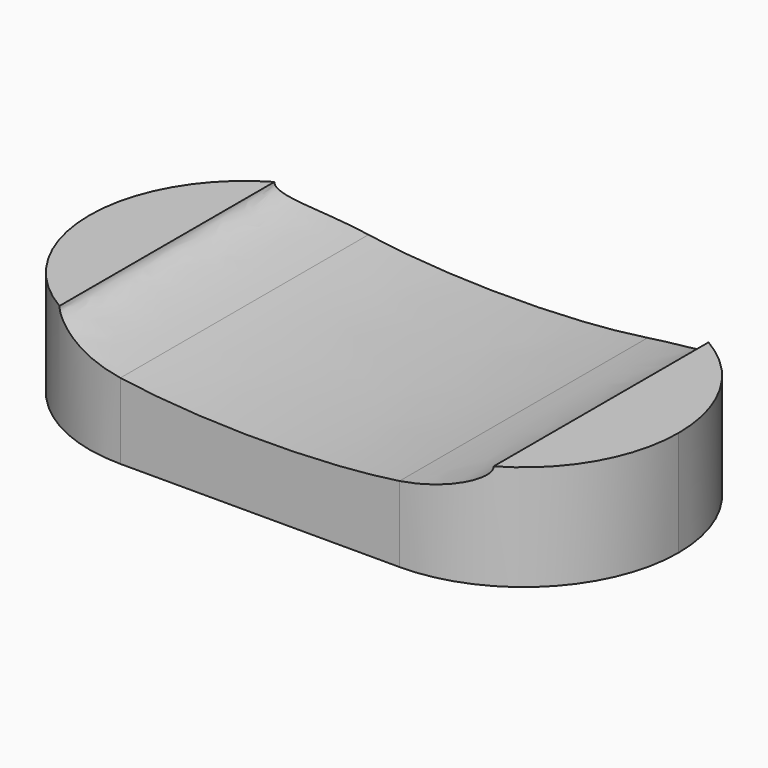
from build123d import *

# Parameters (mm, degrees)
F1_DEPTH = 6.8
F3_DEPTH = 25
F5_DEPTH = 2
F7_DEPTH = 2


with BuildPart() as f1:
    # F0 (on Top) → F1 (new body)
    with BuildSketch(Plane.XY):
        with BuildLine():
            ThreePointArc((-46.538709, 10.046789), (-53.609776, 7.117857), (-56.538709, 0.046789))
            Line((-56.538709, 0.046789), (-37.538709, 0.046789))
            Line((-37.538709, 0.046789), (-37.538709, 10.046789))
            Line((-37.538709, 10.046789), (-46.538709, 10.046789))
        make_face()
        with BuildLine():
            Line((-37.538709, 0.046789), (-56.538709, 0.046789))
            ThreePointArc((-56.538709, 0.046789), (-53.609776, -7.024279), (-46.538709, -9.953211))
            Line((-46.538709, -9.953211), (-37.538709, -9.953211))
            Line((-37.538709, -9.953211), (-37.538709, 0.046789))
        make_face()
        with BuildLine():
            Line((-37.538709, 10.046789), (-37.538709, 0.046789))
            Line((-37.538709, 0.046789), (-18.538709, 0.046789))
            ThreePointArc((-18.538709, 0.046789), (-21.467641, 7.117857), (-28.538709, 10.046789))
            Line((-28.538709, 10.046789), (-37.538709, 10.046789))
        make_face()
        with BuildLine():
            Line((-18.538709, 0.046789), (-37.538709, 0.046789))
            Line((-37.538709, 0.046789), (-37.538709, -9.953211))
            Line((-37.538709, -9.953211), (-28.538709, -9.953211))
            ThreePointArc((-28.538709, -9.953211), (-21.467641, -7.024279), (-18.538709, 0.046789))
        make_face()
    extrude(amount=F1_DEPTH)

    # F2 (on face) → F3 (cut)
    with BuildSketch(Plane.XZ.offset(9.953211)):
        with BuildLine():
            Line((-46.538709, 6.8), (-46.538709, 4.885035))
            add(Edge.make_bspline(
                [(-46.538709, 4.885035), (-37.538709, 3.536233), (-28.538709, 4.885035)],
                knots=[4.014167, 4.014167, 4.014167, 5.410611, 5.410611, 5.410611], degree=2, weights=[1, 0.765986, 1]))
            Line((-28.538709, 4.885035), (-28.538709, 6.8))
            Line((-28.538709, 6.8), (-46.538709, 6.8))
        make_face()
        with BuildLine():
            add(Edge.make_bspline(
                [(-28.538709, 4.885035), (-23.538709, 5.634369), (-23.538709, 6.8)],
                knots=[5.410611, 5.410611, 5.410611, 6.283185, 6.283185, 6.283185], degree=2, weights=[1, 0.906327, 1]))
            add(Edge.make_bspline(
                [(-23.538709, 6.8), (-23.538709, 10.724017), (-43.454788, 9.065817), (-63.370868, 7.407617), (-46.538709, 4.885035)],
                knots=[0, 0, 0, 2.007083, 2.007083, 4.014167, 4.014167, 4.014167], degree=2, weights=[1, 0.537319, 1, 0.537319, 1]))
            Line((-46.538709, 4.885035), (-46.538709, 6.8))
            Line((-46.538709, 6.8), (-28.538709, 6.8))
            Line((-28.538709, 6.8), (-28.538709, 4.885035))
        make_face()
    extrude(amount=-F3_DEPTH, mode=Mode.SUBTRACT)

    # F4 (on face) → F5 (cut)
    with BuildSketch(Plane(origin=(0, 0, 0), x_dir=(1, 0, 0), z_dir=(0, 0, -1))):
        with BuildLine():
            Line((-28.538709, 9.353211), (-46.538709, 9.353211))
            ThreePointArc((-46.538709, 9.353211), (-55.938709, -0.046789), (-46.538709, -9.446789))
            Line((-46.538709, -9.446789), (-28.538709, -9.446789))
            ThreePointArc((-28.538709, -9.446789), (-19.138709, -0.046789), (-28.538709, 9.353211))
        make_face()
    extrude(amount=-F5_DEPTH, mode=Mode.SUBTRACT)

    # F6 (on face) → F7 (cut)
    with BuildSketch(Plane(origin=(0, 0, 2), x_dir=(1, 0, 0), z_dir=(0, 0, -1))):
        with BuildLine():
            Line((-28.538709, 3.953211), (-46.538709, 3.953211))
            ThreePointArc((-46.538709, 3.953211), (-50.538709, -0.046789), (-46.538709, -4.046789))
            Line((-46.538709, -4.046789), (-28.538709, -4.046789))
            ThreePointArc((-28.538709, -4.046789), (-24.538709, -0.046789), (-28.538709, 3.953211))
        make_face()
    extrude(amount=-F7_DEPTH, mode=Mode.SUBTRACT)


solid = f1.part
